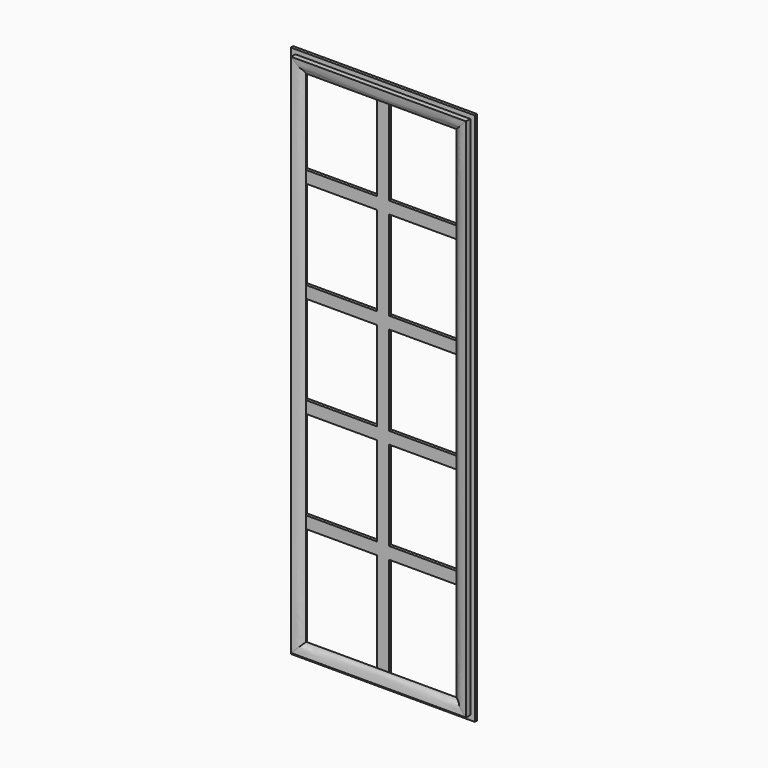
from build123d import *

# Parameters (mm, degrees)
F0_W     = 387.35
F0_H     = 1123.95
F1_DEPTH = 6.35
F5_W     = 152.4
F5_H     = 187.96
F5_H_2   = 213.36
F6_DEPTH = 12.7


with BuildPart() as f1:
    # F0 (on Front) → F1 (new body)
    with BuildSketch(Plane.XZ):
        with Locations((193.675, 561.975)):
            Rectangle(F0_W, F0_H)
    extrude(amount=F1_DEPTH)

    # F5 (on face) → F6 (cut)
    with BuildSketch(Plane.XZ.offset(6.35)):
        with Locations((104.775, 1001.395)):
            Rectangle(F5_W, F5_H)
        with Locations((282.575, 1001.395)):
            Rectangle(F5_W, F5_H)
        with Locations((104.775, 788.035)):
            Rectangle(F5_W, F5_H)
        with Locations((104.775, 574.675)):
            Rectangle(F5_W, F5_H)
        with Locations((104.775, 361.315)):
            Rectangle(F5_W, F5_H)
        with Locations((104.775, 135.255)):
            Rectangle(F5_W, F5_H_2)
        with Locations((282.575, 361.315)):
            Rectangle(F5_W, F5_H)
        with Locations((282.575, 135.255)):
            Rectangle(F5_W, F5_H_2)
        with Locations((282.575, 574.675)):
            Rectangle(F5_W, F5_H)
        with Locations((282.575, 788.035)):
            Rectangle(F5_W, F5_H)
    extrude(amount=-F6_DEPTH, mode=Mode.SUBTRACT)

    # F10: sweep along a path in F7
    with BuildLine(Plane.XZ.offset(6.35)) as f10_path:
        Line((377.825, 1114.425), (377.825, 9.525))
        Line((377.825, 9.525), (9.525, 9.525))
        Line((9.525, 9.525), (9.525, 1114.425))
        Line((9.525, 1114.425), (377.825, 1114.425))
    # F9 (on line) → F10 (sweep)
    with BuildSketch(Plane(origin=(0, 0, 1114.425), x_dir=(1, 0, 0), z_dir=(0, 0, -1))):
        with BuildLine():
            Line((360.3625, 6.35), (377.825, 6.35))
            Line((377.825, 6.35), (377.825, 17.4625))
            add(Edge.make_bspline(
                [(377.825, 17.4625), (375.2068016933, 17.4625), (360.0394428154, 16.8122230213), (359.5575559695, 11.7134094699), (346.3171558974, 9.8023000181), (360.4324312453, 8.10491277), (360.3625, 6.35)],
                knots=[0, 0, 0, 0, 0.3395240009, 0.5336867443, 0.7449146015, 1, 1, 1, 1], degree=3))
        make_face()
    sweep(path=f10_path.line, transition=Transition.RIGHT)


solid = f1.part
